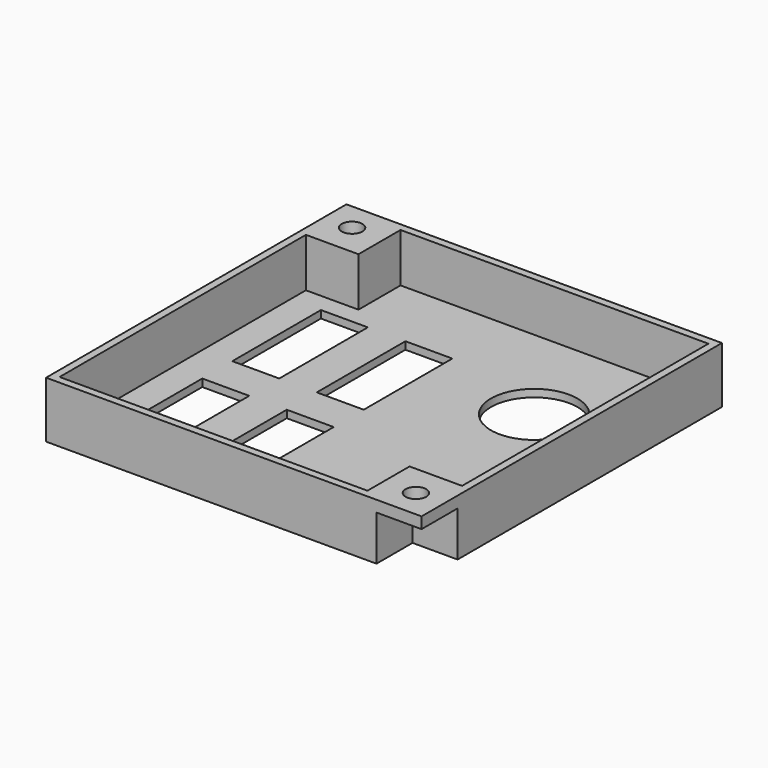
from build123d import *

# Parameters (mm, degrees)
SKETCH_W        = 100
SKETCH_H        = 100
PAD_DEPTH       = 15
POCKET_DEPTH    = 13
SKETCH002_W     = 12
SKETCH002_H     = 12
POCKET001_DEPTH = 12
SKETCH003_R     = 2.75
POCKET002_DEPTH = 3
SKETCH004_R     = 11.5
SKETCH004_W     = 12.5
SKETCH004_H     = 29.5
POCKET003_DEPTH = 3


with BuildPart() as part:
    # Sketch → Pad (new body)
    with BuildSketch(Plane.XY):
        with Locations((50, 50)):
            Rectangle(SKETCH_W, SKETCH_H)
    extrude(amount=PAD_DEPTH)

    # Sketch001 → Pocket (cut)
    with BuildSketch(Plane.XY.offset(15)):
        Polygon((2, 2), (2, 84), (16, 84), (16, 98), (98, 98), (98, 16), (84, 16), (84, 2), align=None)
    extrude(amount=-POCKET_DEPTH, mode=Mode.SUBTRACT)

    # Sketch002 → Pocket001 (cut)
    with BuildSketch(Plane(origin=(0, 0, 0), x_dir=(1, 0, 0), z_dir=(0, 0, -1))):
        with Locations((94, -6)):
            Rectangle(SKETCH002_W, SKETCH002_H)
        with Locations((6, -94)):
            Rectangle(SKETCH002_W, SKETCH002_H)
    extrude(amount=-POCKET001_DEPTH, mode=Mode.SUBTRACT)

    # Sketch003 → Pocket002 (cut)
    with BuildSketch(Plane.XY.offset(15)):
        with Locations((7.5, 92.5)):
            Circle(SKETCH003_R)
        with Locations((92.5, 7.5)):
            Circle(SKETCH003_R)
    extrude(amount=-POCKET002_DEPTH, mode=Mode.SUBTRACT)

    # Sketch004 → Pocket003 (cut)
    with BuildSketch(Plane(origin=(0, 0, 0), x_dir=(1, 0, 0), z_dir=(0, 0, -1))):
        with Locations((74, -70)):
            Circle(SKETCH004_R)
        with Locations((16.25, -24.75)):
            Rectangle(SKETCH004_W, SKETCH004_H)
        with Locations((16.25, -64.25)):
            Rectangle(SKETCH004_W, SKETCH004_H)
        with Locations((38.75, -24.75)):
            Rectangle(SKETCH004_W, SKETCH004_H)
        with Locations((38.75, -64.25)):
            Rectangle(SKETCH004_W, SKETCH004_H)
    extrude(amount=-POCKET003_DEPTH, mode=Mode.SUBTRACT)


solid = part.part
